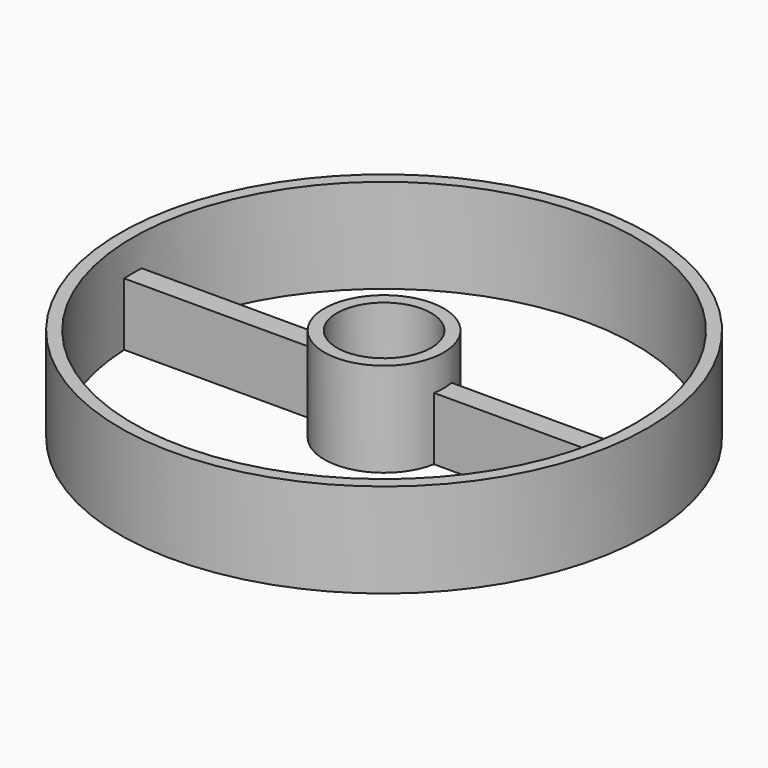
from build123d import *

# Parameters (mm, degrees)
F0_R     = 42
F0_R_2   = 40
F1_DEPTH = 15
F0_R_3   = 9.5
F0_R_4   = 7.5
F3_DEPTH = 10


with BuildPart() as f1:
    # F0 (on Top) → F1 (new body)
    with BuildSketch(Plane.XY):
        Circle(F0_R)
        Circle(F0_R_2, mode=Mode.SUBTRACT)
    extrude(amount=F1_DEPTH)



with BuildPart() as f1b:
    # F0 (on Top) → F1, piece 2 (new body)
    with BuildSketch(Plane.XY):
        Circle(F0_R_3)
        Circle(F0_R_4, mode=Mode.SUBTRACT)
    extrude(amount=F1_DEPTH)


with BuildPart() as f1_1:
    add(f1.part)

    add(f1b.part)  # F3 merges F1b
    # F2 (on Top) → F3 (join)
    with BuildSketch(Plane.XY):
        with BuildLine():
            ThreePointArc((39.9617004143, -1.75), (39.9904239573, -0.8752095261), (40, 0))
            ThreePointArc((40, 0), (39.9904239573, 0.8752095261), (39.9617004143, 1.75))
            Line((39.9617004143, 1.75), (9.3374246985, 1.75))
            ThreePointArc((9.3374246985, 1.75), (9.4592688575, 0.8787677066), (9.5, 0))
            ThreePointArc((9.5, 0), (9.4592688575, -0.8787677066), (9.3374246985, -1.75))
            Line((9.3374246985, -1.75), (39.9617004143, -1.75))
        make_face()
        with BuildLine():
            Line((-9.3374246985, 1.75), (-39.9617004143, 1.75))
            ThreePointArc((-39.9617004143, 1.75), (-40, 0), (-39.9617004143, -1.75))
            Line((-39.9617004143, -1.75), (-9.3374246985, -1.75))
            ThreePointArc((-9.3374246985, -1.75), (-9.5, 0), (-9.3374246985, 1.75))
        make_face()
    extrude(amount=F3_DEPTH)


solid = f1_1.part
